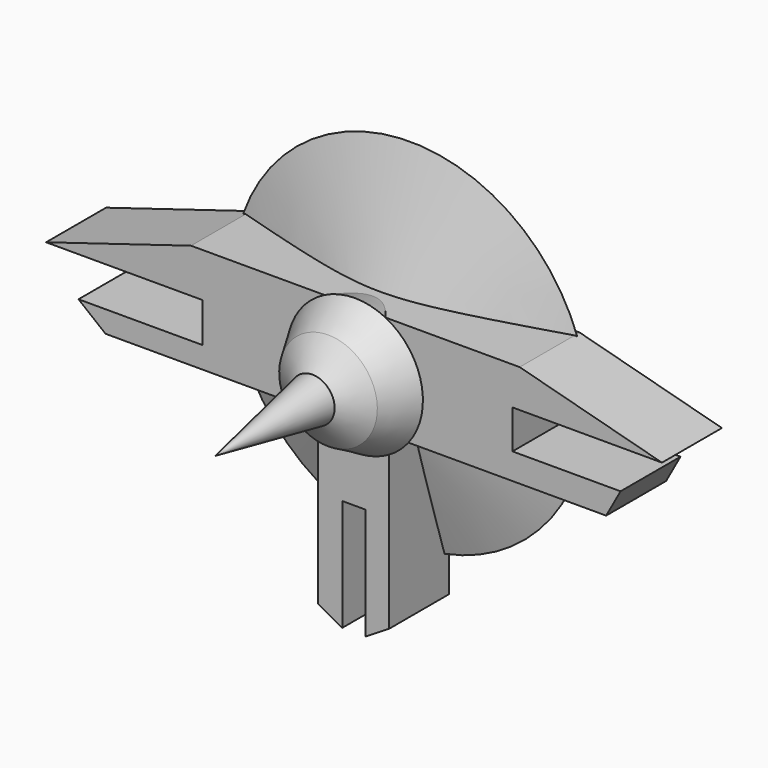
from build123d import *

# Parameters (mm, degrees)
F3_DEPTH = 23.74677


with BuildPart() as f1:
    # F0 (on Right) → F1 (revolve)
    with BuildSketch(Plane.YZ):
        Polygon((0, 0), (-55.336684, 0), (-16.839481, -7.044591), (-10.553904, -15.545615), (0, -21.535669), (9.698181, -18.398022), (21.939179, -56.233841), (21.939179, -18.968504), (26.242139, -15.545615), (18.825883, -12.122728), (25.671657, -12.122728), (25.671657, 0), align=None)
    revolve(axis=Axis((0, -27.668342, 0), (0, -1, 0)))

    # F2 (on Front) → F3 (join)
    with BuildSketch(Plane.XZ):
        Polygon((52.19904, 19.253744), (0, 19.253744), (0, 0), (49.917113, 0), (49.917113, 4.706471), (49.917113, 7.273637), (97.267061, 7.273637), align=None)
        Polygon((0, 0), (0, 19.253744), (-51.913794, 19.253744), (-97.837545, 5.276952), (-48.20567, 5.276952), (-48.20567, 0), align=None)
        Polygon((49.917113, 0), (0, 0), (0, -36.368184), (3.422888, -36.368184), (3.422888, -71.73802), (10.839145, -67.174174), (10.839145, -13.26369), (79.58214, -13.26369), (84.145986, -4.991711), (49.917113, -4.991711), align=None)
        Polygon((0, -36.368184), (0, 0), (-48.20567, 0), (-48.20567, -7.273637), (-87.568872, -7.273637), (-79.011656, -14.119413), (-11.694865, -14.119413), (-11.694865, -67.459412), (-3.99337, -71.73802), (-3.99337, -36.368184), align=None)
    extrude(amount=-F3_DEPTH)


solid = f1.part
